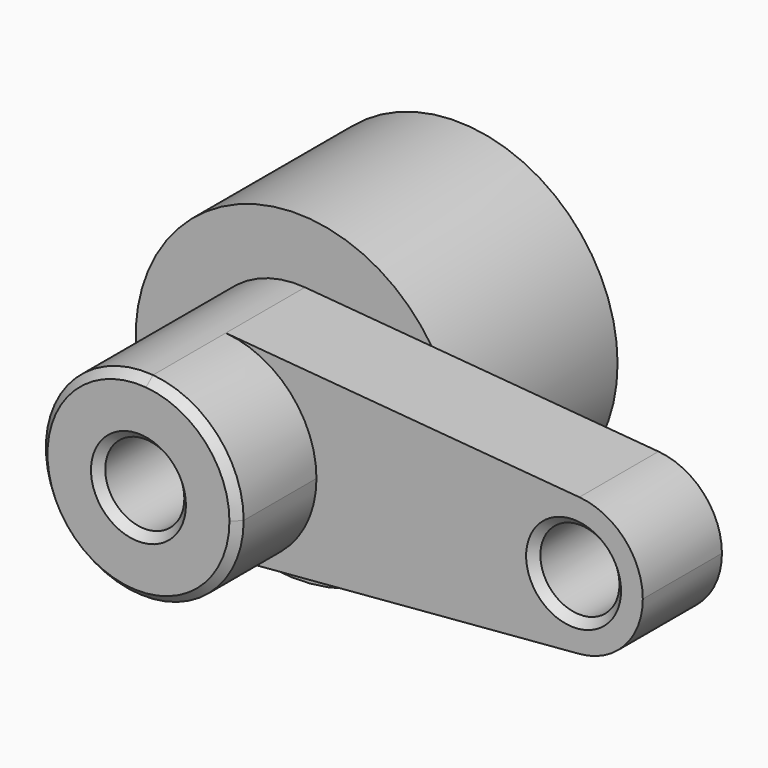
from build123d import *

# Parameters (mm, degrees)
F0_R     = 10
F1_DEPTH = 25
F2_DEPTH = 50
F3_SIZE  = 2
F4_R     = 40.723122
F5_DEPTH = 50.493211


with BuildPart() as f1:
    # F0 (on Front) → F1 (new body)
    with BuildSketch(Plane.XZ):
        with BuildLine():
            ThreePointArc((2.083333, -24.913043), (18.399502, -16.92508), (25, 0))
            ThreePointArc((25, 0), (18.399502, 16.92508), (2.083333, 24.913043))
            ThreePointArc((2.083333, 24.913043), (-25, 0), (2.083333, -24.913043))
        make_face()
        Circle(F0_R, mode=Mode.SUBTRACT)
        with BuildLine():
            ThreePointArc((2.083333, 24.913043), (18.399502, 16.92508), (25, 0))
            ThreePointArc((25, 0), (18.399502, -16.92508), (2.083333, -24.913043))
            Line((2.083333, -24.913043), (91.458333, -17.43913))
            ThreePointArc((91.458333, -17.43913), (72.5, 0), (91.458333, 17.43913))
            Line((91.458333, 17.43913), (2.083333, 24.913043))
        make_face()
        with BuildLine():
            ThreePointArc((107.5, 0), (102.879651, 11.847556), (91.458333, 17.43913))
            ThreePointArc((91.458333, 17.43913), (72.5, 0), (91.458333, -17.43913))
            ThreePointArc((91.458333, -17.43913), (102.879651, -11.847556), (107.5, 0))
        make_face()
        with Locations((90, 0)):
            Circle(F0_R, mode=Mode.SUBTRACT)
    extrude(amount=F1_DEPTH)

    # F0 (on Front) → F2 (join)
    with BuildSketch(Plane.XZ):
        with BuildLine():
            ThreePointArc((2.083333, -24.913043), (18.399502, -16.92508), (25, 0))
            ThreePointArc((25, 0), (18.399502, 16.92508), (2.083333, 24.913043))
            ThreePointArc((2.083333, 24.913043), (-25, 0), (2.083333, -24.913043))
        make_face()
        Circle(F0_R, mode=Mode.SUBTRACT)
    extrude(amount=F2_DEPTH)

    # F3
    f3_edges = [f1.edges().sort_by_distance(p)[0] for p in [
        (-2.083333, -50, 24.913043),
        (-10, -50, 0),
        (80, -25, 0),
    ]]
    chamfer(f3_edges, length=F3_SIZE)

    # F4 (on Front) → F5 (join)
    with BuildSketch(Plane.XZ):
        Circle(F4_R)
    extrude(amount=-F5_DEPTH)


solid = f1.part
